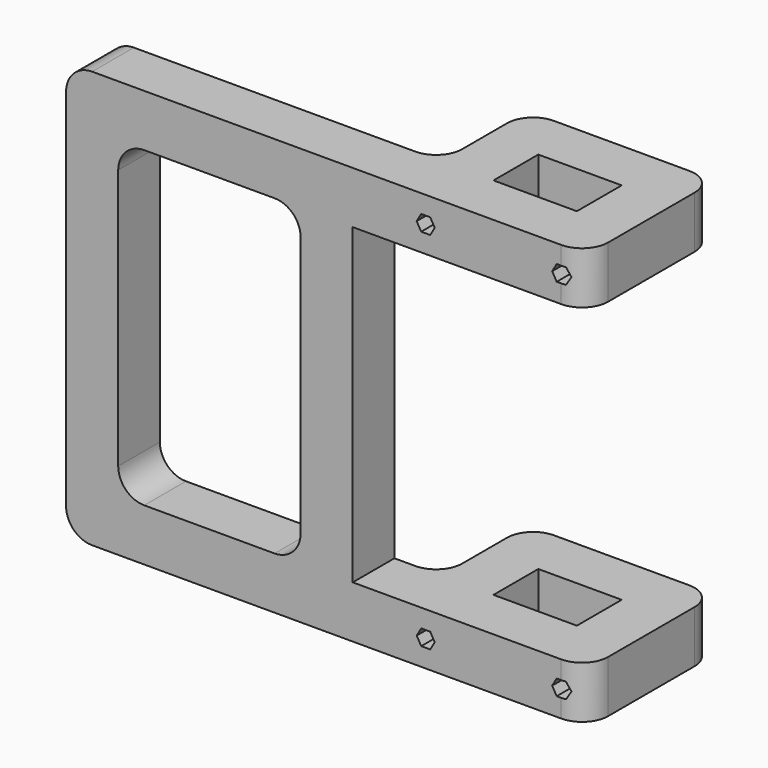
from build123d import *

# Parameters (mm, degrees)
SKETCH_W         = 32
SKETCH_H         = 21.5
PAD_DEPTH        = 80
SKETCH001_W      = 70
SKETCH001_H      = 120
SKETCH001_W_2    = 140
POCKET_DEPTH     = 61.501
FILLET_R         = 10
HOLE_D           = 3.5
HOLE_CBORE_D     = 6
HOLE_CBORE_DEPTH = 15
POCKET001_DEPTH  = 15


with BuildPart() as part:
    # Sketch → Pad (new body, symmetric)
    with BuildSketch(Plane.XY):
        Polygon((0, 0), (200, 0), (200, 61.5), (128, 61.5), (128, 20), (0, 20), align=None)
        with Locations((164, 30.75)):
            Rectangle(SKETCH_W, SKETCH_H, mode=Mode.SUBTRACT)
    extrude(amount=PAD_DEPTH, both=True)

    # Sketch001 → Pocket (cut, through all)
    with BuildSketch(Plane.XZ):
        with Locations((55, 0)):
            Rectangle(SKETCH001_W, SKETCH001_H)
        with Locations((180, 0)):
            Rectangle(SKETCH001_W_2, SKETCH001_H)
    extrude(amount=-POCKET_DEPTH, mode=Mode.SUBTRACT)

    # Fillet
    fillet_edges = [part.edges().sort_by_distance(p)[0] for p in [
        (20, 10, -60),
        (0, 10, 80),
        (20, 10, 60),
        (0, 10, -80),
        (200, 0, 70),
        (200, 61.5, 70),
        (200, 61.5, -70),
        (200, 0, -70),
        (128, 61.5, 70),
        (128, 61.5, -70),
        (128, 20, 70),
        (128, 20, -70),
        (90, 10, 60),
        (90, 10, -60),
    ]]
    fillet(fillet_edges, radius=FILLET_R)

    # Hole (through all)
    with Locations(Plane(origin=(0, 61.5, 0), x_dir=(-1, 0, 0), z_dir=(0, 1, 0))):
        with Locations((-190, 70), (-138, 70), (-190, -70), (-138, -70)):
            CounterBoreHole(HOLE_D / 2, HOLE_CBORE_D / 2, HOLE_CBORE_DEPTH)

    # Sketch004 → Pocket001 (cut)
    with BuildSketch(Plane.XZ):
        Polygon((141.464102, -70), (139.732051, -67), (136.267949, -67), (134.535898, -70), (136.267949, -73), (139.732051, -73), align=None)
        Polygon((188.267949, -73), (191.732051, -73), (193.464102, -70), (191.732051, -67), (188.267949, -67), (186.535898, -70), align=None)
        Polygon((139.732051, 67), (141.464102, 70), (139.732051, 73), (136.267949, 73), (134.535898, 70), (136.267949, 67), align=None)
        Polygon((188.267949, 67), (191.732051, 67), (193.464102, 70), (191.732051, 73), (188.267949, 73), (186.535898, 70), align=None)
    extrude(amount=-POCKET001_DEPTH, mode=Mode.SUBTRACT)


solid = part.part
